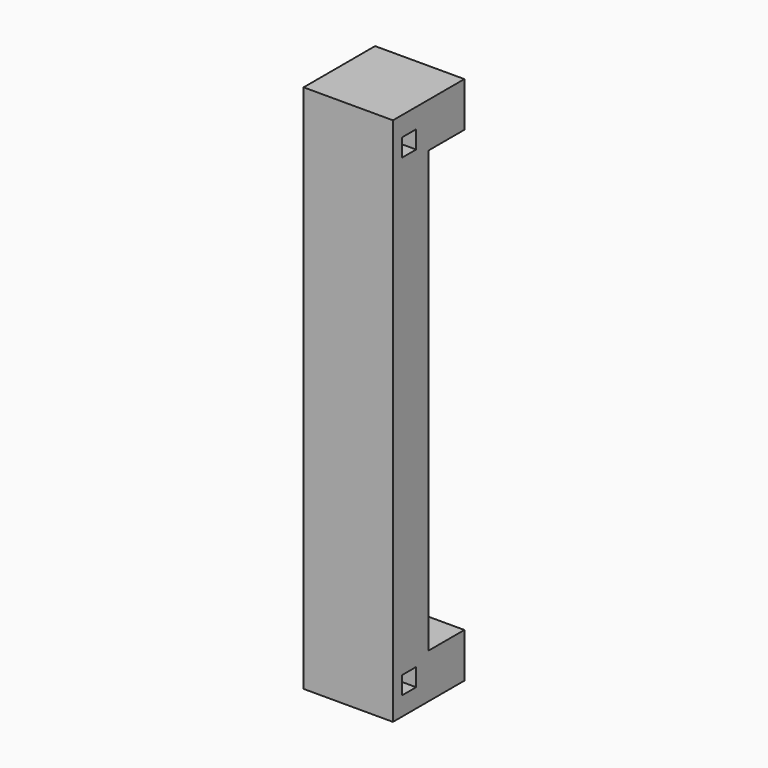
from build123d import *

# Parameters (mm, degrees)
BOX_W        = 40
BOX_H        = 40
BOX_DEPTH    = 98.6
BOX001_W     = 20
BOX001_H     = 20
BOX001_DEPTH = 118.6
SKETCH_W     = 4
SKETCH_H     = 4
POCKET_DEPTH = 30


with BuildPart() as battery_hole:
    # Box → Box (new body)
    with BuildSketch(Plane.XY.offset(10)):
        with Locations((20, 20)):
            Rectangle(BOX_W, BOX_H)
    extrude(amount=BOX_DEPTH)


with BuildPart() as pocket:
    # Box001 → Box001 (new body)
    with BuildSketch(Plane(origin=(-10, -10, 0), x_dir=(1, 0, 0), z_dir=(0, 0, 1))):
        with Locations((10, 10)):
            Rectangle(BOX001_W, BOX001_H)
    extrude(amount=BOX001_DEPTH)

    # Cut: cut Battery Hole
    add(battery_hole.part, mode=Mode.SUBTRACT)

    # Sketch → Pocket (cut)
    with BuildSketch(Plane.YZ.offset(10)):
        with Locations((-5.5, 112.2)):
            Rectangle(SKETCH_W, SKETCH_H)
        with Locations((-5.5, 6.2)):
            Rectangle(SKETCH_W, SKETCH_H)
    extrude(amount=-POCKET_DEPTH, mode=Mode.SUBTRACT)


solid = pocket.part
